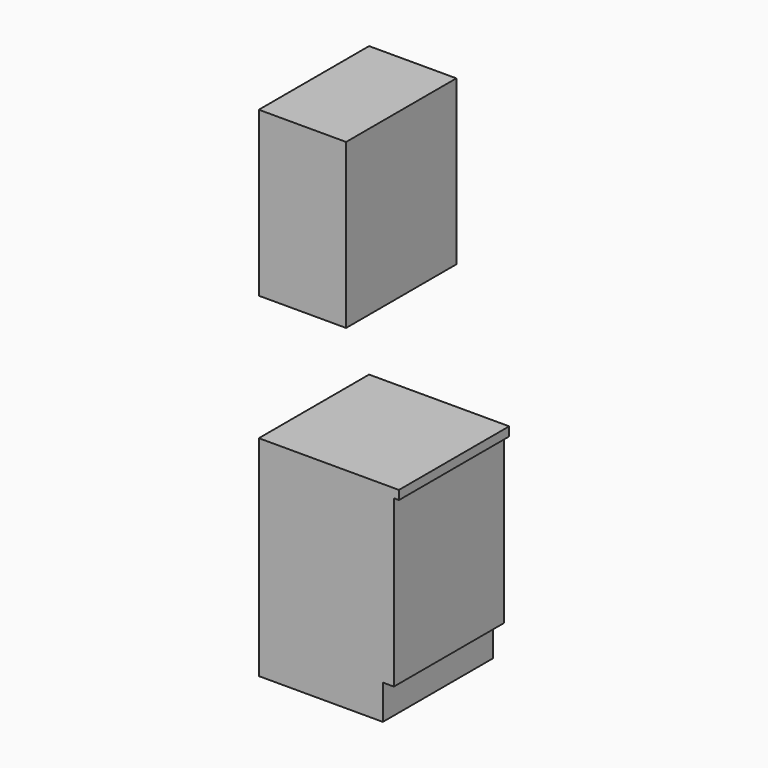
from build123d import *

# Parameters (mm, degrees)
F0_W     = 540
F0_H     = 151
F0_W_2   = 380
F0_H_2   = 713
F1_DEPTH = 600


with BuildPart() as f1:
    # F0 (on Front) → F1 (new body)
    with BuildSketch(Plane.XZ):
        Polygon((588, 873), (0, 873), (0, 151), (540, 151), (588, 151), align=None)
        Polygon((610, 912), (0, 912), (0, 873), (588, 873), (610, 873), align=None)
        with Locations((270, 75.5)):
            Rectangle(F0_W, F0_H)
        with Locations((190, 1814.5)):
            Rectangle(F0_W_2, F0_H_2)
    extrude(amount=-F1_DEPTH)


solid = f1.part
